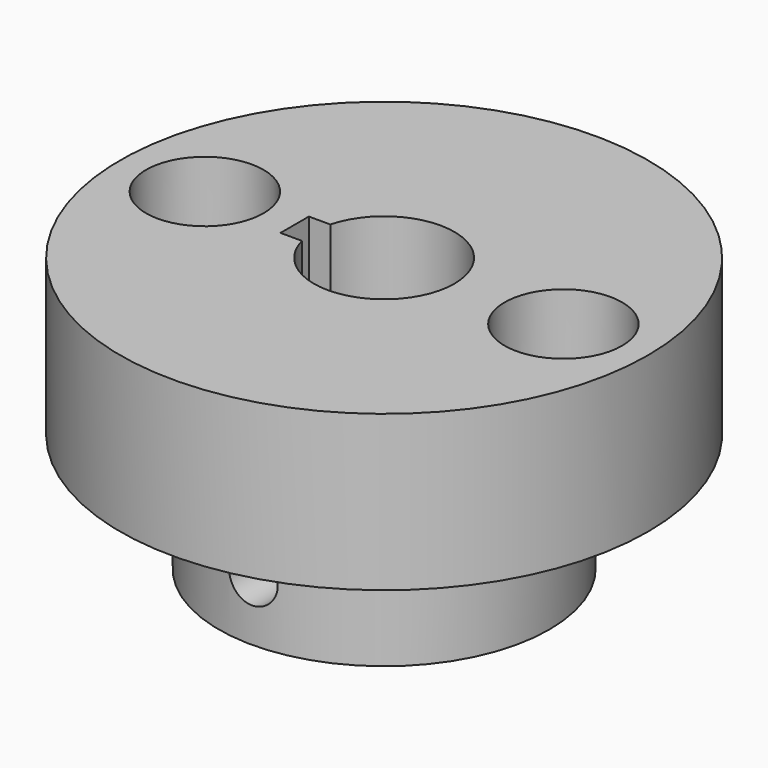
from build123d import *

# Parameters (mm, degrees)
F0_R      = 35.7
F1_DEPTH  = 37
F3_R      = 35.7
F3_R_2    = 22.35
F4_DEPTH  = 16
F6_DEPTH  = 37.001
F7_R      = 7.95
F8_DEPTH  = 15
F12_D     = 6.6
F12_DEPTH = 35.7
F12_TIP   = 1.9828400428


with BuildPart() as f1:
    # F0 (on Top) → F1 (new body)
    with BuildSketch(Plane.XY):
        Circle(F0_R)
    extrude(amount=F1_DEPTH)

    # F3 (on face) → F4 (cut)
    with BuildSketch(Plane(origin=(0, 0, 0), x_dir=(1, 0, 0), z_dir=(0, 0, -1))):
        Circle(F3_R)
        Circle(F3_R_2, mode=Mode.SUBTRACT)
    extrude(amount=-F4_DEPTH, mode=Mode.SUBTRACT)

    # F5 (on face) → F6 (cut, through all)
    with BuildSketch(Plane(origin=(0, 0, 0), x_dir=(1, 0, 0), z_dir=(0, 0, -1))):
        with BuildLine():
            ThreePointArc((-9.191844211, -2.4), (-9.5, 0), (-9.191844211, 2.4))
            Line((-9.191844211, 2.4), (-12.1, 2.4))
            Line((-12.1, 2.4), (-12.1, -2.4))
            Line((-12.1, -2.4), (-9.191844211, -2.4))
        make_face()
        with BuildLine():
            Line((0, 2.4), (-9.191844211, 2.4))
            ThreePointArc((-9.191844211, 2.4), (-9.5, 0), (-9.191844211, -2.4))
            Line((-9.191844211, -2.4), (0, -2.4))
            Line((0, -2.4), (0, 2.4))
        make_face()
        with BuildLine():
            ThreePointArc((-9.191844211, -2.4), (1.2098512295, -9.4226461253), (9.5, 0))
            ThreePointArc((9.5, 0), (1.2098512295, 9.4226461253), (-9.191844211, 2.4))
            Line((-9.191844211, 2.4), (0, 2.4))
            Line((0, 2.4), (0, -2.4))
            Line((0, -2.4), (-9.191844211, -2.4))
        make_face()
    extrude(amount=-F6_DEPTH, mode=Mode.SUBTRACT)

    # F7 (on face) → F8 (cut)
    with BuildSketch(Plane.XY.offset(37)):
        with Locations((-24.25, 0)):
            Circle(F7_R)
        with Locations((24.25, 0)):
            Circle(F7_R)
    extrude(amount=-F8_DEPTH, mode=Mode.SUBTRACT)

    # F12
    with Locations(Plane.XZ.offset(35.7)):
        with Locations((0, 8)):
            Hole(F12_D / 2, depth=F12_DEPTH)
            with Locations((0, 0, -(F12_DEPTH + F12_TIP / 2))):  # 118° drill point
                Cone(0, F12_D / 2, F12_TIP, mode=Mode.SUBTRACT)


solid = f1.part
